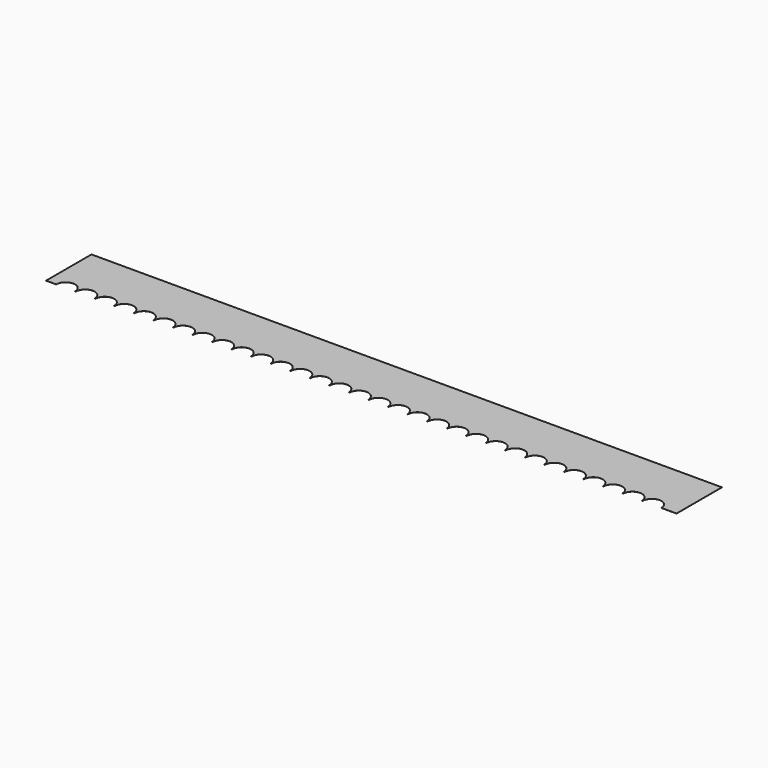
from build123d import *

# Parameters (mm, degrees)
F0_W     = 10000
F0_H     = 1800
F1_DEPTH = 1
F2_R     = 150
F3_DEPTH = 1.001
F5_DEPTH = 1.001


with BuildPart() as f1:
    # F0 (on Top) → F1 (new body)
    with BuildSketch(Plane.XY):
        with Locations((5000, -900)):
            Rectangle(F0_W, F0_H)
    extrude(amount=F1_DEPTH)

    # F2 (on face) → F3 (cut, through all)
    with BuildSketch(Plane.XY.offset(1)):
        with Locations((310.346186161, -900)):
            Circle(F2_R)
        with Locations((620.346186161, -900)):
            Circle(F2_R)
        with Locations((930.346186161, -900)):
            Circle(F2_R)
        with Locations((1240.346186161, -900)):
            Circle(F2_R)
        with Locations((1550.346186161, -900)):
            Circle(F2_R)
        with Locations((1860.346186161, -900)):
            Circle(F2_R)
        with Locations((2170.346186161, -900)):
            Circle(F2_R)
        with Locations((2480.346186161, -900)):
            Circle(F2_R)
        with Locations((2790.346186161, -900)):
            Circle(F2_R)
        with Locations((3100.346186161, -900)):
            Circle(F2_R)
        with Locations((3410.346186161, -900)):
            Circle(F2_R)
        with Locations((3720.346186161, -900)):
            Circle(F2_R)
        with Locations((4030.346186161, -900)):
            Circle(F2_R)
        with Locations((4340.346186161, -900)):
            Circle(F2_R)
        with Locations((4650.346186161, -900)):
            Circle(F2_R)
        with Locations((4960.346186161, -900)):
            Circle(F2_R)
        with Locations((5270.346186161, -900)):
            Circle(F2_R)
        with Locations((5580.346186161, -900)):
            Circle(F2_R)
        with Locations((5890.346186161, -900)):
            Circle(F2_R)
        with Locations((6200.346186161, -900)):
            Circle(F2_R)
        with Locations((6510.346186161, -900)):
            Circle(F2_R)
        with Locations((6820.346186161, -900)):
            Circle(F2_R)
        with Locations((7130.346186161, -900)):
            Circle(F2_R)
        with Locations((7440.346186161, -900)):
            Circle(F2_R)
        with Locations((7750.346186161, -900)):
            Circle(F2_R)
        with Locations((8060.346186161, -900)):
            Circle(F2_R)
        with Locations((8370.346186161, -900)):
            Circle(F2_R)
        with Locations((8680.346186161, -900)):
            Circle(F2_R)
        with Locations((8990.346186161, -900)):
            Circle(F2_R)
        with Locations((9300.346186161, -900)):
            Circle(F2_R)
        with Locations((9610.346186161, -900)):
            Circle(F2_R)
    extrude(amount=-F3_DEPTH, mode=Mode.SUBTRACT)

    # F4 (on face) → F5 (cut, through all)
    with BuildSketch(Plane.XY.offset(1)):
        with BuildLine():
            Line((10000, -900), (9760.346186161, -900))
            ThreePointArc((9760.346186161, -900), (9610.346186161, -1050), (9460.346186161, -900))
            Line((9460.346186161, -900), (9450.346186161, -900))
            ThreePointArc((9450.346186161, -900), (9300.346186161, -1050), (9150.346186161, -900))
            Line((9150.346186161, -900), (9140.346186161, -900))
            ThreePointArc((9140.346186161, -900), (8990.346186161, -1050), (8840.346186161, -900))
            Line((8840.346186161, -900), (8830.346186161, -900))
            ThreePointArc((8830.346186161, -900), (8680.346186161, -1050), (8530.346186161, -900))
            Line((8530.346186161, -900), (8520.346186161, -900))
            ThreePointArc((8520.346186161, -900), (8370.346186161, -1050), (8220.346186161, -900))
            Line((8220.346186161, -900), (8210.346186161, -900))
            ThreePointArc((8210.346186161, -900), (8060.346186161, -1050), (7910.346186161, -900))
            Line((7910.346186161, -900), (7900.346186161, -900))
            ThreePointArc((7900.346186161, -900), (7750.346186161, -1050), (7600.346186161, -900))
            Line((7600.346186161, -900), (7590.346186161, -900))
            ThreePointArc((7590.346186161, -900), (7440.346186161, -1050), (7290.346186161, -900))
            Line((7290.346186161, -900), (7280.346186161, -900))
            ThreePointArc((7280.346186161, -900), (7130.346186161, -1050), (6980.346186161, -900))
            Line((6980.346186161, -900), (6970.346186161, -900))
            ThreePointArc((6970.346186161, -900), (6820.346186161, -1050), (6670.346186161, -900))
            Line((6670.346186161, -900), (6660.346186161, -900))
            ThreePointArc((6660.346186161, -900), (6510.346186161, -1050), (6360.346186161, -900))
            Line((6360.346186161, -900), (6350.346186161, -900))
            ThreePointArc((6350.346186161, -900), (6200.346186161, -1050), (6050.346186161, -900))
            Line((6050.346186161, -900), (6040.346186161, -900))
            ThreePointArc((6040.346186161, -900), (5890.346186161, -1050), (5740.346186161, -900))
            Line((5740.346186161, -900), (5730.346186161, -900))
            ThreePointArc((5730.346186161, -900), (5580.346186161, -1050), (5430.346186161, -900))
            Line((5430.346186161, -900), (5420.346186161, -900))
            ThreePointArc((5420.346186161, -900), (5270.346186161, -1050), (5120.346186161, -900))
            Line((5120.346186161, -900), (5110.346186161, -900))
            ThreePointArc((5110.346186161, -900), (4960.346186161, -1050), (4810.346186161, -900))
            Line((4810.346186161, -900), (4800.346186161, -900))
            ThreePointArc((4800.346186161, -900), (4650.346186161, -1050), (4500.346186161, -900))
            Line((4500.346186161, -900), (4490.346186161, -900))
            ThreePointArc((4490.346186161, -900), (4340.346186161, -1050), (4190.346186161, -900))
            Line((4190.346186161, -900), (4180.346186161, -900))
            ThreePointArc((4180.346186161, -900), (4030.346186161, -1050), (3880.346186161, -900))
            Line((3880.346186161, -900), (3870.346186161, -900))
            ThreePointArc((3870.346186161, -900), (3720.346186161, -1050), (3570.346186161, -900))
            Line((3570.346186161, -900), (3560.346186161, -900))
            ThreePointArc((3560.346186161, -900), (3410.346186161, -1050), (3260.346186161, -900))
            Line((3260.346186161, -900), (3250.346186161, -900))
            ThreePointArc((3250.346186161, -900), (3100.346186161, -1050), (2950.346186161, -900))
            Line((2950.346186161, -900), (2940.346186161, -900))
            ThreePointArc((2940.346186161, -900), (2790.346186161, -1050), (2640.346186161, -900))
            Line((2640.346186161, -900), (2630.346186161, -900))
            ThreePointArc((2630.346186161, -900), (2480.346186161, -1050), (2330.346186161, -900))
            Line((2330.346186161, -900), (2320.346186161, -900))
            ThreePointArc((2320.346186161, -900), (2170.346186161, -1050), (2020.346186161, -900))
            Line((2020.346186161, -900), (2010.346186161, -900))
            ThreePointArc((2010.346186161, -900), (1860.346186161, -1050), (1710.346186161, -900))
            Line((1710.346186161, -900), (1700.346186161, -900))
            ThreePointArc((1700.346186161, -900), (1550.346186161, -1050), (1400.346186161, -900))
            Line((1400.346186161, -900), (1390.346186161, -900))
            ThreePointArc((1390.346186161, -900), (1240.346186161, -1050), (1090.346186161, -900))
            Line((1090.346186161, -900), (1080.346186161, -900))
            ThreePointArc((1080.346186161, -900), (930.346186161, -1050), (780.346186161, -900))
            Line((780.346186161, -900), (770.346186161, -900))
            ThreePointArc((770.346186161, -900), (620.346186161, -1050), (470.346186161, -900))
            Line((470.346186161, -900), (460.346186161, -900))
            ThreePointArc((460.346186161, -900), (310.346186161, -1050), (160.346186161, -900))
            Line((160.346186161, -900), (0, -900))
            Line((0, -900), (0, -1800))
            Line((0, -1800), (10000, -1800))
            Line((10000, -1800), (10000, -900))
        make_face()
    extrude(amount=-F5_DEPTH, mode=Mode.SUBTRACT)


solid = f1.part
